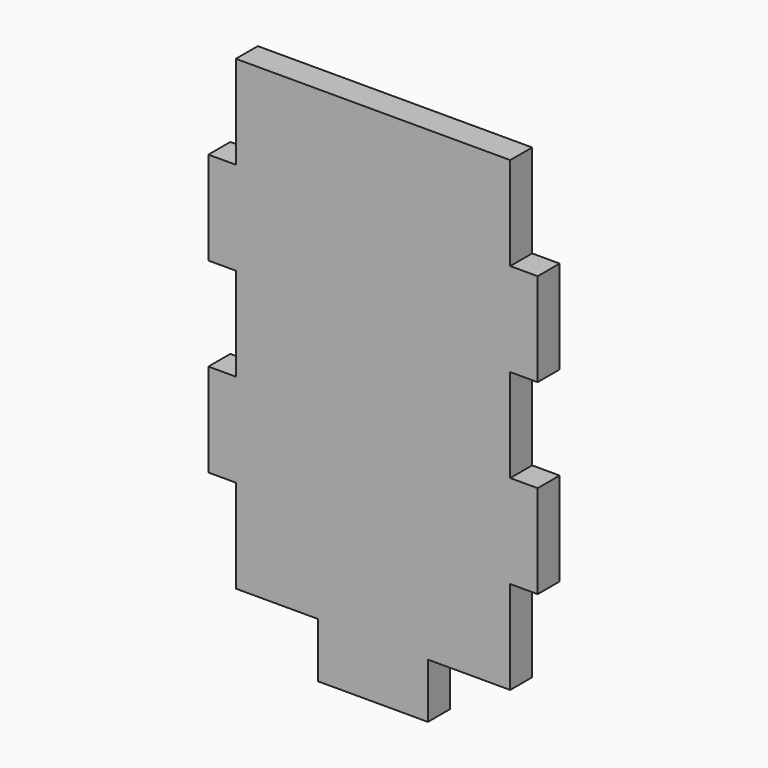
from build123d import *

# Parameters (mm, degrees)
F1_DEPTH = 5


with BuildPart() as f1:
    # F0 (on Front) → F1 (new body)
    with BuildSketch(Plane.XZ):
        Polygon((25, 41.161765), (25, 58.161765), (-25, 58.161765), (-25, 41.161765), (-30, 41.161765), (-30, 24.161765), (-25, 24.161765), (-25, 7.161765), (-30, 7.161765), (-30, -9.838235), (-25, -9.838235), (-25, -26.838235), (-10, -26.838235), (-10, -31.838235), (-10, -36.838235), (10, -36.838235), (10, -31.838235), (10, -26.838235), (25, -26.838235), (25, -9.838235), (30, -9.838235), (30, 7.161765), (25, 7.161765), (25, 24.161765), (30, 24.161765), (30, 41.161765), align=None)
    extrude(amount=F1_DEPTH)


solid = f1.part
